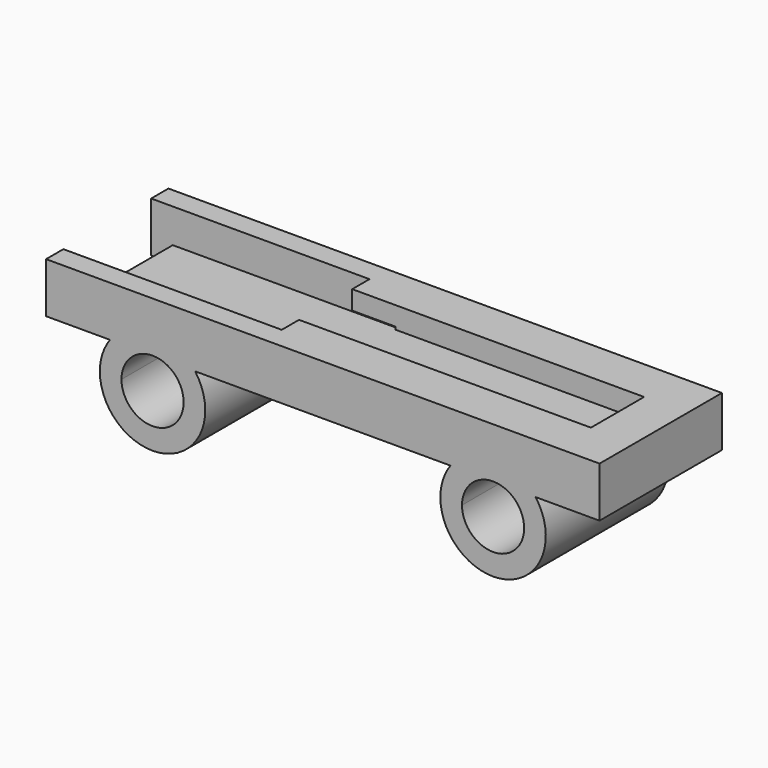
from build123d import *

# Parameters (mm, degrees)
F1_DEPTH = 3.15
F0_W     = 47.2
F0_H     = 10.15
F3_DEPTH = 1.5
F4_DEPTH = 2
F2_W     = 4
F2_H     = 2
F5_DEPTH = 1.75
F7_DEPTH = 14.15


with BuildPart() as f1:
    # F0 (on Top) → F1 (new body)
    with BuildSketch(Plane.XY):
        Polygon((23.6, 5.075), (23.6, -5.075), (-23.6, -5.075), (-25.6, -5.075), (-25.6, -7.075), (25.6, -7.075), (25.6, 7.075), (-25.6, 7.075), (-25.6, 5.075), (-23.6, 5.075), align=None)
    extrude(amount=F1_DEPTH)

    # F0 (on Top) → F3 (join)
    with BuildSketch(Plane.XY):
        Rectangle(F0_W, F0_H)
        Polygon((23.6, 5.075), (23.6, -5.075), (-23.6, -5.075), (-25.6, -5.075), (-25.6, -7.075), (25.6, -7.075), (25.6, 7.075), (-25.6, 7.075), (-25.6, 5.075), (-23.6, 5.075), align=None)
    extrude(amount=-F3_DEPTH)

    # F2 (on face) → F4 (join)
    with BuildSketch(Plane.XY.offset(3.15)):
        Polygon((23.6, -5.075), (23.6, -3.075), (21.6, -3.075), (-1.4, -3.075), (-1.4, -5.075), align=None)
        Polygon((23.6, 5.075), (-1.4, 5.075), (-1.4, 3.075), (21.6, 3.075), (21.6, -3.075), (23.6, -3.075), align=None)
    extrude(amount=-F4_DEPTH)

    # F2 (on face) → F5 (join)
    with BuildSketch(Plane.XY.offset(3.15)):
        with Locations((-3.4, -4.075)):
            Rectangle(F2_W, F2_H)
        with Locations((-3.4, 4.075)):
            Rectangle(F2_W, F2_H)
    extrude(amount=-F5_DEPTH)

    # F6 (on face) → F7 (join)
    with BuildSketch(Plane(origin=(0, 7.075, 0), x_dir=(-1, 0, 0), z_dir=(0, 1, 0))):
        with BuildLine():
            Line((12.0083426132, -1.5), (11.812996063, -1.5))
            ThreePointArc((11.812996063, -1.5), (14.2379267863, -9.0095722129), (20.625, -4.375))
            ThreePointArc((20.625, -4.375), (20.3845722129, -2.8629267863), (19.687003937, -1.5))
            Line((19.687003937, -1.5), (19.4916573868, -1.5))
            Line((19.4916573868, -1.5), (18.25, -1.5))
            Line((18.25, -1.5), (15.75, -1.5))
            Line((15.75, -1.5), (12.0083426132, -1.5))
        make_face()
        with BuildLine():
            ThreePointArc((18.625, -4.375), (13.7170680041, -6.4079319959), (15.75, -1.5))
            ThreePointArc((15.75, -1.5), (17.7829319959, -2.3420680041), (18.625, -4.375))
        make_face(mode=Mode.SUBTRACT)
        with BuildLine():
            ThreePointArc((13.5994186832, 0), (12.615167699, -0.6415764445), (11.812996063, -1.5))
            Line((11.812996063, -1.5), (12.0083426132, -1.5))
            Line((12.0083426132, -1.5), (15.75, -1.5))
            Line((15.75, -1.5), (18.25, -1.5))
            Line((18.25, -1.5), (19.4916573868, -1.5))
            Line((19.4916573868, -1.5), (19.687003937, -1.5))
            ThreePointArc((19.687003937, -1.5), (18.884832301, -0.6415764445), (17.9005813168, 0))
            Line((17.9005813168, 0), (17.8115528128, 0))
            Line((17.8115528128, 0), (13.6884471872, 0))
            Line((13.6884471872, 0), (13.5994186832, 0))
        make_face()
        with BuildLine():
            Line((-19.4916573868, -1.5), (-18.25, -1.5))
            Line((-18.25, -1.5), (-15.75, -1.5))
            Line((-15.75, -1.5), (-12.0083426132, -1.5))
            Line((-12.0083426132, -1.5), (-11.812996063, -1.5))
            ThreePointArc((-11.812996063, -1.5), (-12.615167699, -0.6415764445), (-13.5994186832, 0))
            Line((-13.5994186832, 0), (-13.6884471872, 0))
            Line((-13.6884471872, 0), (-17.8115528128, 0))
            Line((-17.8115528128, 0), (-17.9005813168, 0))
            ThreePointArc((-17.9005813168, 0), (-18.884832301, -0.6415764445), (-19.687003937, -1.5))
            Line((-19.687003937, -1.5), (-19.4916573868, -1.5))
        make_face()
        with BuildLine():
            Line((-15.75, -1.5), (-18.25, -1.5))
            Line((-18.25, -1.5), (-19.4916573868, -1.5))
            Line((-19.4916573868, -1.5), (-19.687003937, -1.5))
            ThreePointArc((-19.687003937, -1.5), (-17.2620732137, -9.0095722129), (-10.875, -4.375))
            ThreePointArc((-10.875, -4.375), (-11.1154277871, -2.8629267863), (-11.812996063, -1.5))
            Line((-11.812996063, -1.5), (-12.0083426132, -1.5))
            Line((-12.0083426132, -1.5), (-15.75, -1.5))
        make_face()
        with BuildLine():
            ThreePointArc((-12.875, -4.375), (-17.7829319959, -6.4079319959), (-15.75, -1.5))
            ThreePointArc((-15.75, -1.5), (-13.7170680041, -2.3420680041), (-12.875, -4.375))
        make_face(mode=Mode.SUBTRACT)
    extrude(amount=-F7_DEPTH)


solid = f1.part
